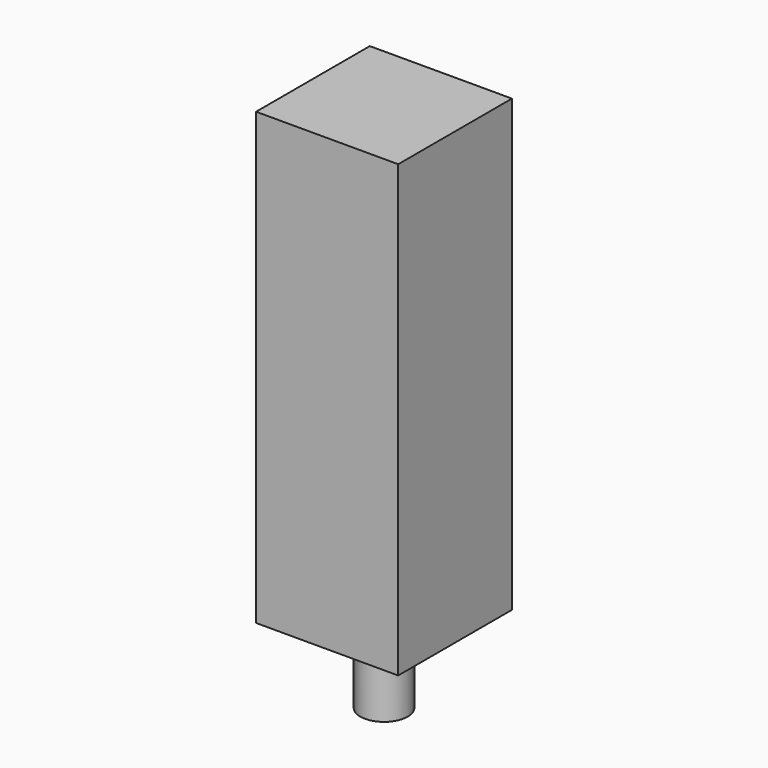
from build123d import *

# Parameters (mm, degrees)
F0_R     = 10
F1_DEPTH = 31
F2_R     = 25
F2_R_2   = 10
F3_DEPTH = 3
F4_W     = 60
F4_H     = 60
F4_R     = 25
F5_DEPTH = 190


with BuildPart() as f1:
    # F0 (on Top) → F1 (new body)
    with BuildSketch(Plane.XY):
        Circle(F0_R)
    extrude(amount=F1_DEPTH)

    # F2 (on face) → F3 (join)
    with BuildSketch(Plane.XY.offset(31)):
        Circle(F2_R)
        Circle(F2_R_2, mode=Mode.SUBTRACT)
        Circle(F2_R_2)
    extrude(amount=F3_DEPTH)

    # F4 (on face) → F5 (join)
    with BuildSketch(Plane.XY.offset(34)):
        Rectangle(F4_W, F4_H)
        Circle(F4_R, mode=Mode.SUBTRACT)
        Circle(F4_R)
    extrude(amount=F5_DEPTH)


solid = f1.part
